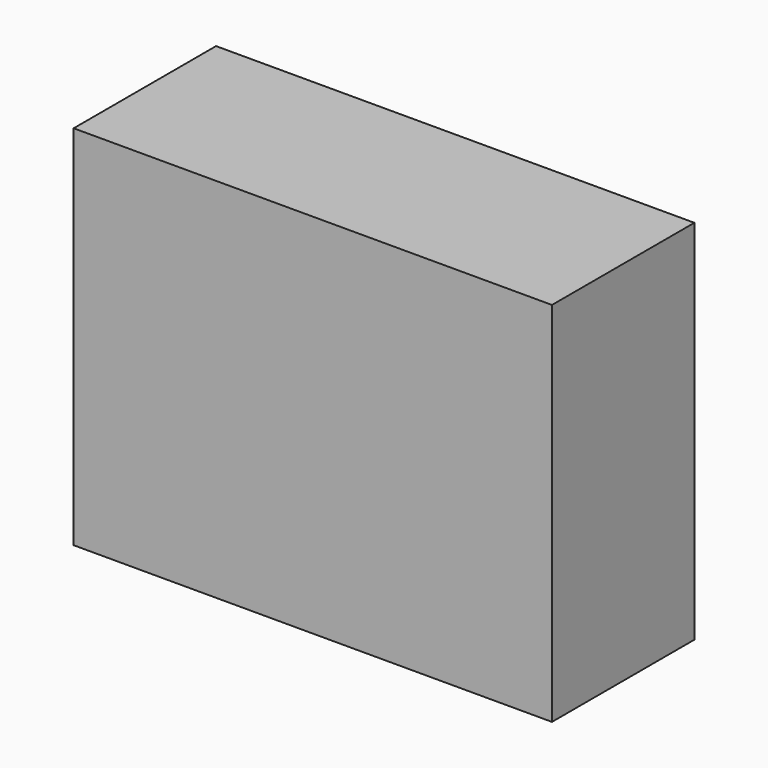
from build123d import *

# Parameters (mm, degrees)
F0_W     = 1092.2
F0_H     = 838.2
F1_DEPTH = 19.05
F2_W     = 1054.1
F2_H     = 254
F3_DEPTH = 387.35
F5_DEPTH = 19.05


with BuildPart() as f1:
    # F0 (on Front) → F1 (new body)
    with BuildSketch(Plane.XZ):
        with Locations((8.787813, 419.1)):
            Rectangle(F0_W, F0_H)
    extrude(amount=F1_DEPTH)

    # F2 (on face) → F3 (join)
    with BuildSketch(Plane(origin=(0, 0, 0), x_dir=(-1, 0, 0), z_dir=(0, 1, 0))):
        Polygon((537.312187, 0), (537.312187, 838.2), (518.262187, 838.2), (-535.837813, 838.2), (-554.887813, 838.2), (-554.887813, 0), (-535.837813, 0), (-535.837813, 273.05), (518.262187, 273.05), (518.262187, 0), align=None)
        with Locations((-8.787813, 419.1)):
            Rectangle(F2_W, F2_H, mode=Mode.SUBTRACT)
        with Locations((-8.787813, 692.15)):
            Rectangle(F2_W, F2_H, mode=Mode.SUBTRACT)
    extrude(amount=F3_DEPTH)

    # F4 (on face) → F5 (cut)
    with BuildSketch(Plane.XY.offset(292.1)):
        with BuildLine():
            Line((-435.712187, 25.4), (-435.712187, 0))
            Line((-435.712187, 0), (-308.712187, 0))
            Line((-308.712187, 0), (-308.712187, 25.4))
            ThreePointArc((-308.712187, 25.4), (-312.431931, 34.380256), (-321.412187, 38.1))
            Line((-321.412187, 38.1), (-423.012187, 38.1))
            ThreePointArc((-423.012187, 38.1), (-431.992444, 34.380256), (-435.712187, 25.4))
        make_face()
        with BuildLine():
            Line((-54.712187, 25.4), (-54.712187, 0))
            Line((-54.712187, 0), (72.287813, 0))
            Line((72.287813, 0), (72.287813, 25.4))
            ThreePointArc((72.287813, 25.4), (68.568069, 34.380256), (59.587813, 38.1))
            Line((59.587813, 38.1), (-42.012187, 38.1))
            ThreePointArc((-42.012187, 38.1), (-50.992444, 34.380256), (-54.712187, 25.4))
        make_face()
        with BuildLine():
            Line((326.287813, 25.4), (326.287813, 0))
            Line((326.287813, 0), (453.287813, 0))
            Line((453.287813, 0), (453.287813, 25.4))
            ThreePointArc((453.287813, 25.4), (449.568069, 34.380256), (440.587813, 38.1))
            Line((440.587813, 38.1), (338.987813, 38.1))
            ThreePointArc((338.987813, 38.1), (330.007556, 34.380256), (326.287813, 25.4))
        make_face()
    extrude(amount=-F5_DEPTH, mode=Mode.SUBTRACT)


solid = f1.part
